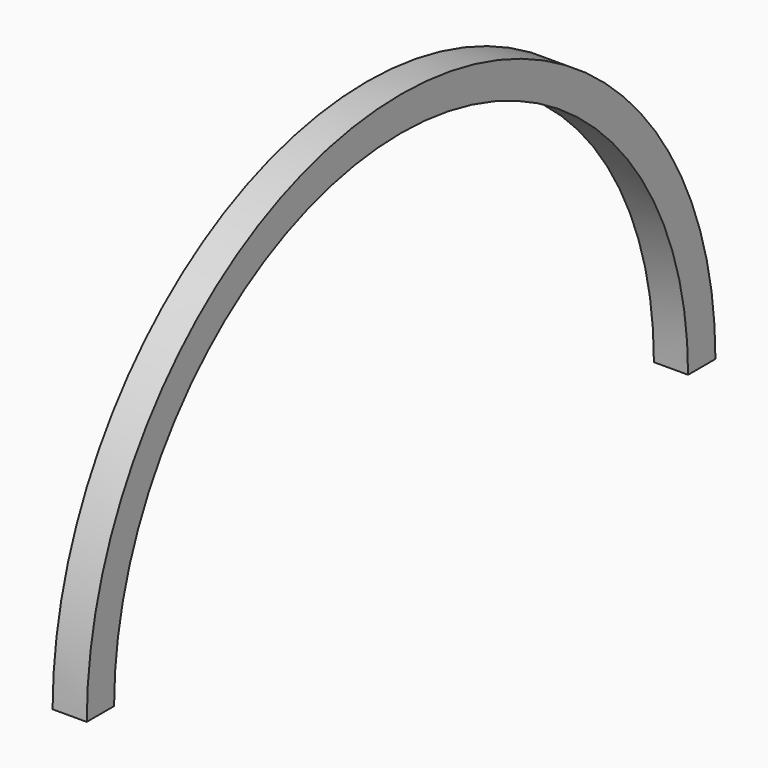
from build123d import *

# Parameters (mm, degrees)
CYLINDER072_R     = 1.3
CYLINDER072_DEPTH = 331
CYLINDER061_R     = 1.3
CYLINDER061_DEPTH = 331
CYLINDER054_W     = 105
CYLINDER054_H     = 10
CYLINDER054_ANGLE = 180
CYLINDER053_W     = 115
CYLINDER053_H     = 10
CYLINDER053_ANGLE = 180


with BuildPart() as cilindro072:
    # Cylinder072 → Cylinder072 (new body)
    with BuildSketch(Plane(origin=(5, 224, 178), x_dir=(0, 0, -1), z_dir=(1, 0, 0))):
        Circle(CYLINDER072_R)
    extrude(amount=CYLINDER072_DEPTH)


with BuildPart() as cilindro061:
    # Cylinder061 → Cylinder061 (new body)
    with BuildSketch(Plane(origin=(5, 6, 178), x_dir=(0, 0, -1), z_dir=(1, 0, 0))):
        Circle(CYLINDER061_R)
    extrude(amount=CYLINDER061_DEPTH)


with BuildPart() as cilindro054:
    # Cylinder054 → Cylinder054 (revolve)
    with BuildSketch(Plane(origin=(-3, 115, 171), x_dir=(0, -1, 0), z_dir=(0, 0, -1))):
        with Locations((52.5, 5)):
            Rectangle(CYLINDER054_W, CYLINDER054_H)
    revolve(axis=Axis((-3, 115, 171), (-1, 0, 0)), revolution_arc=CYLINDER054_ANGLE)


with BuildPart() as cut081:
    # Cylinder053 → Cylinder053 (revolve)
    with BuildSketch(Plane(origin=(-3, 115, 171), x_dir=(0, -1, 0), z_dir=(0, 0, -1))):
        with Locations((57.5, 5)):
            Rectangle(CYLINDER053_W, CYLINDER053_H)
    revolve(axis=Axis((-3, 115, 171), (-1, 0, 0)), revolution_arc=CYLINDER053_ANGLE)

    # Cut067: cut Cilindro054
    add(cilindro054.part, mode=Mode.SUBTRACT)


with BuildPart() as cut081_1:
    # Cut067 placement: moved
    add(cut081.part.moved(Location((343, 0, -9))))

    # Cut072: cut Cilindro061
    add(cilindro061.part, mode=Mode.SUBTRACT)

    # Cut081: cut Cilindro072
    add(cilindro072.part, mode=Mode.SUBTRACT)


solid = cut081_1.part
